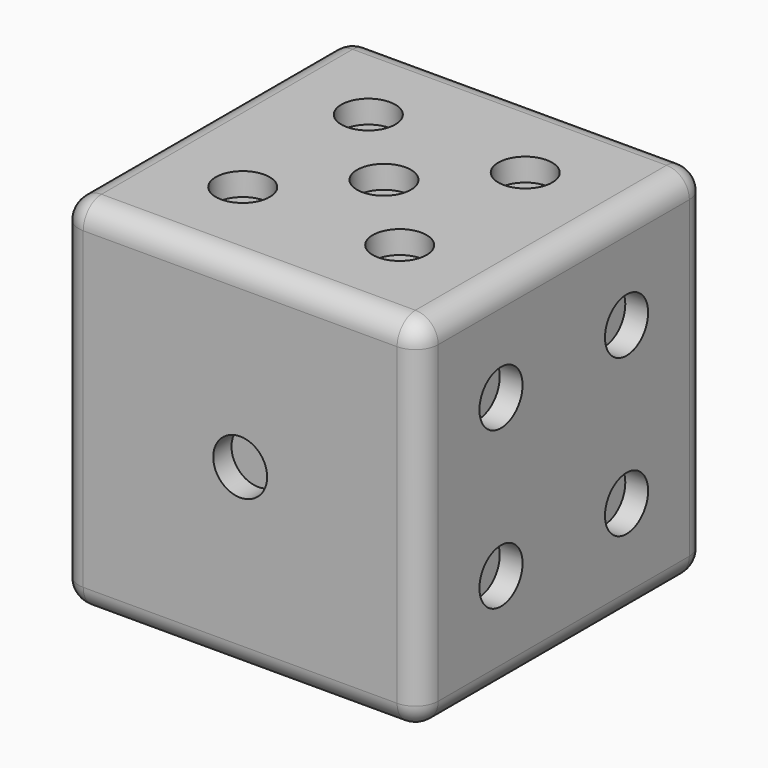
from build123d import *

# Parameters (mm, degrees)
F0_W      = 200
F0_H      = 200
F1_DEPTH  = 200
F2_R      = 12.7
F3_R      = 15
F4_DEPTH  = 12.7
F5_R      = 15
F6_DEPTH  = 12.7
F7_R      = 15
F8_DEPTH  = 12.7
F9_R      = 15
F10_DEPTH = 12.7
F11_R     = 15
F12_DEPTH = 12.7
F13_R     = 15
F14_DEPTH = 12.7


with BuildPart() as f1:
    # F0 (on Front) → F1 (new body)
    with BuildSketch(Plane.XZ):
        Rectangle(F0_W, F0_H)
    extrude(amount=-F1_DEPTH)

    # F2
    f2_edges = [f1.edges().sort_by_distance(p)[0] for p in [
        (100, 100, 100),
        (-100, 100, 100),
        (0, 0, 100),
        (0, 200, 100),
        (100, 100, -100),
        (100, 0, 0),
        (100, 200, 0),
        (0, 0, -100),
        (-100, 0, 0),
        (-100, 100, -100),
        (-100, 200, 0),
        (0, 200, -100),
    ]]
    fillet(f2_edges, radius=F2_R)

    # F3 (on face) → F4 (cut)
    with BuildSketch(Plane.XZ):
        Circle(F3_R)
    extrude(amount=-F4_DEPTH, mode=Mode.SUBTRACT)

    # F5 (on face) → F6 (cut)
    with BuildSketch(Plane.YZ.offset(100)):
        with Locations((56.35, -43.65)):
            Circle(F5_R)
        with Locations((143.65, -43.65)):
            Circle(F5_R)
        with Locations((56.35, 43.65)):
            Circle(F5_R)
        with Locations((143.65, 43.65)):
            Circle(F5_R)
    extrude(amount=-F6_DEPTH, mode=Mode.SUBTRACT)

    # F7 (on face) → F8 (cut)
    with BuildSketch(Plane(origin=(0, 0, -100), x_dir=(1, 0, 0), z_dir=(0, 0, -1))):
        with Locations((-43.65, -45.499996)):
            Circle(F7_R)
        with Locations((0, -45.499996)):
            Circle(F7_R)
        with Locations((43.65, -45.499996)):
            Circle(F7_R)
        with Locations((-43.65, -154.499998)):
            Circle(F7_R)
        with Locations((0, -154.499998)):
            Circle(F7_R)
        with Locations((43.65, -154.499998)):
            Circle(F7_R)
    extrude(amount=-F8_DEPTH, mode=Mode.SUBTRACT)

    # F9 (on face) → F10 (cut)
    with BuildSketch(Plane.XY.offset(100)):
        with Locations((-43.65, 143.65)):
            Circle(F9_R)
        with Locations((43.65, 143.65)):
            Circle(F9_R)
        with Locations((-43.65, 56.35)):
            Circle(F9_R)
        with Locations((43.65, 56.35)):
            Circle(F9_R)
        with Locations((0, 100)):
            Circle(F9_R)
    extrude(amount=-F10_DEPTH, mode=Mode.SUBTRACT)

    # F11 (on face) → F12 (cut)
    with BuildSketch(Plane(origin=(-100, 0, 0), x_dir=(0, -1, 0), z_dir=(-1, 0, 0))):
        with Locations((-143.65, -43.65)):
            Circle(F11_R)
        with Locations((-56.35, 43.65)):
            Circle(F11_R)
    extrude(amount=-F12_DEPTH, mode=Mode.SUBTRACT)

    # F13 (on face) → F14 (cut)
    with BuildSketch(Plane(origin=(0, 200, 0), x_dir=(-1, 0, 0), z_dir=(0, 1, 0))):
        with Locations((-43.65, -43.65)):
            Circle(F13_R)
        Circle(F13_R)
        with Locations((43.65, 43.65)):
            Circle(F13_R)
    extrude(amount=-F14_DEPTH, mode=Mode.SUBTRACT)


solid = f1.part
